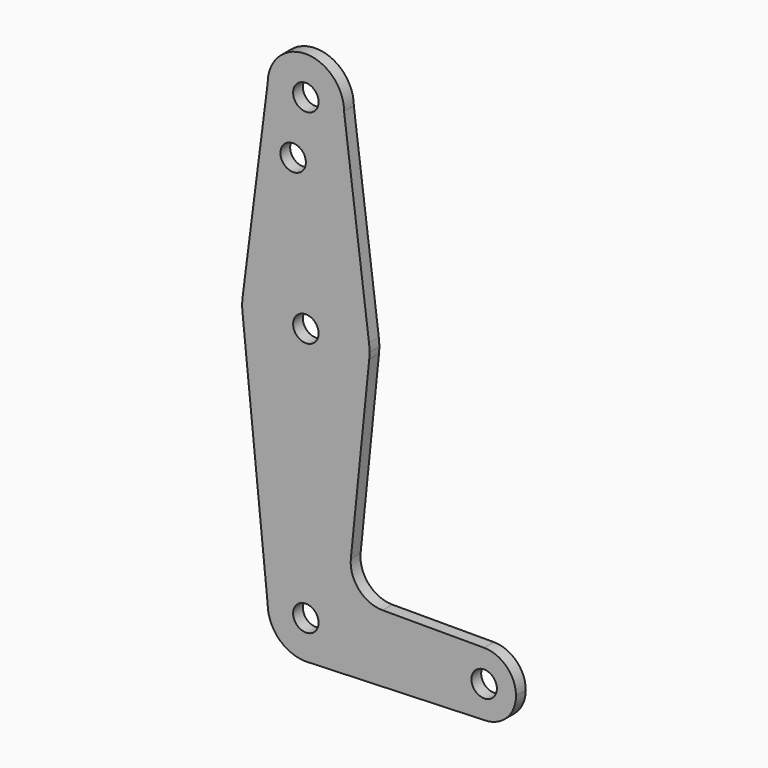
from build123d import *

# Parameters (mm, degrees)
F0_R     = 3.175
F1_DEPTH = 3.048


with BuildPart() as f1:
    # F0 (on Front) → F1 (new body)
    with BuildSketch(Plane.XZ):
        with BuildLine():
            ThreePointArc((44.45, -7.9375), (50.06266, -5.61266), (52.3875, 0))
            ThreePointArc((52.3875, 0), (50.06266, 5.61266), (44.45, 7.9375))
            ThreePointArc((44.45, 7.9375), (36.5125, 0), (44.45, -7.9375))
        make_face()
        with Locations((44.45, 0)):
            Circle(F0_R, mode=Mode.SUBTRACT)
        with BuildLine():
            ThreePointArc((44.45, -7.9375), (36.5125, 0), (44.45, 7.9375))
            Line((44.45, 7.9375), (19.124959, 7.9375))
            ThreePointArc((19.124959, 7.9375), (13.226887, 10.556806), (11.215222, 16.688789))
            Line((11.215222, 16.688789), (15.794203, 61.90038))
            ThreePointArc((15.794203, 61.90038), (0.205667, 47.626332), (-15.747457, 61.491711))
            Line((-15.747457, 61.491711), (-9.525, 0))
            ThreePointArc((-9.525, 0), (0, 9.525), (9.525, 0))
            ThreePointArc((9.525, 0), (6.97129, -6.490511), (0.67949, -9.500732))
            Line((0.67949, -9.500732), (44.45, -7.9375))
        make_face()
        with BuildLine():
            Line((0, -9.525), (0.67949, -9.500732))
            ThreePointArc((0.67949, -9.500732), (6.97129, -6.490511), (9.525, 0))
            ThreePointArc((9.525, 0), (0, 9.525), (-9.525, 0))
            ThreePointArc((-9.525, 0), (-6.735192, -6.735192), (0, -9.525))
        make_face()
        Circle(F0_R, mode=Mode.SUBTRACT)
        with BuildLine():
            ThreePointArc((0, -9.525), (0.339962, -9.518931), (0.67949, -9.500732))
            Line((0.67949, -9.500732), (0, -9.525))
        make_face()
        with BuildLine():
            ThreePointArc((-15.747457, 61.491711), (0.205667, 47.626332), (15.794203, 61.90038))
            ThreePointArc((15.794203, 61.90038), (15.854788, 62.699171), (15.875, 63.5))
            ThreePointArc((15.875, 63.5), (15.843082, 64.506168), (15.747457, 65.508289))
            ThreePointArc((15.747457, 65.508289), (0, 79.375), (-15.747457, 65.508289))
            ThreePointArc((-15.747457, 65.508289), (-15.875, 63.5), (-15.747457, 61.491711))
        make_face()
        with Locations((0, 63.5)):
            Circle(F0_R, mode=Mode.SUBTRACT)
        with BuildLine():
            Line((-9.525, 114.3), (-15.747457, 65.508289))
            ThreePointArc((-15.747457, 65.508289), (0, 79.375), (15.747457, 65.508289))
            Line((15.747457, 65.508289), (9.525, 114.3))
            ThreePointArc((9.525, 114.3), (0, 104.775), (-9.525, 114.3))
        make_face()
        with Locations((-3.175, 100.0252)):
            Circle(F0_R, mode=Mode.SUBTRACT)
        with BuildLine():
            ThreePointArc((9.525, 114.3), (0, 123.825), (-9.525, 114.3))
            ThreePointArc((-9.525, 114.3), (0, 104.775), (9.525, 114.3))
        make_face()
        with Locations((0, 114.3)):
            Circle(F0_R, mode=Mode.SUBTRACT)
    extrude(amount=-F1_DEPTH)


solid = f1.part
